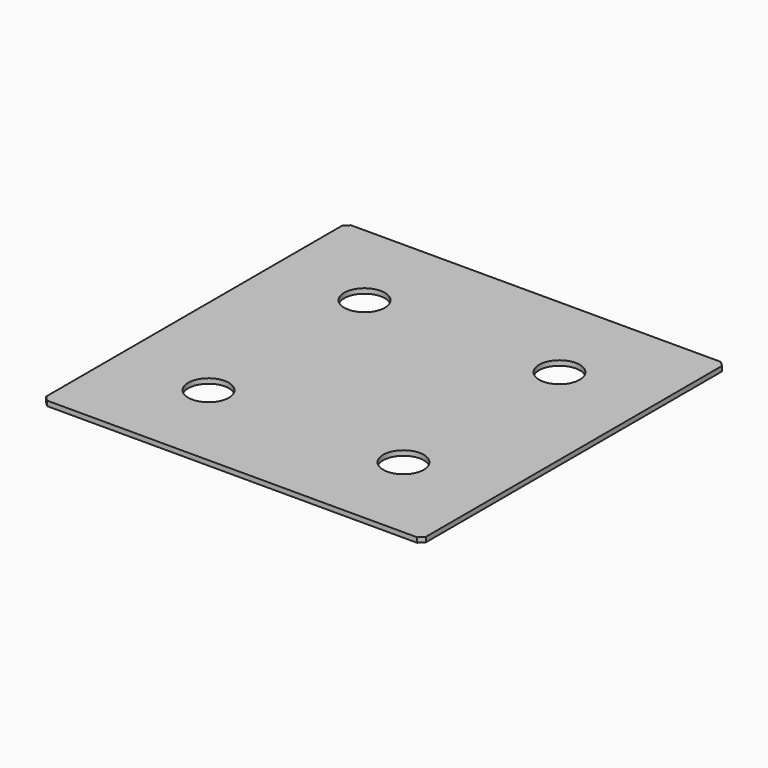
from build123d import *

# Parameters (mm, degrees)
F0_W     = 233.8
F0_H     = 233.8
F1_DEPTH = 3
F2_R     = 12.5
F3_DEPTH = 3.001
F4_SIZE  = 3


with BuildPart() as f1:
    # F0 (on Top) → F1 (new body)
    with BuildSketch(Plane.XY):
        Rectangle(F0_W, F0_H)
    extrude(amount=F1_DEPTH)

    # F2 (on face) → F3 (cut, through all)
    with BuildSketch(Plane.XY.offset(3)):
        with Locations((-60, 60)):
            Circle(F2_R)
        with Locations((-60, -60)):
            Circle(F2_R)
        with Locations((60, -60)):
            Circle(F2_R)
        with Locations((60, 60)):
            Circle(F2_R)
    extrude(amount=-F3_DEPTH, mode=Mode.SUBTRACT)

    # F4
    f4_edges = [f1.edges().sort_by_distance(p)[0] for p in [
        (116.9, 116.9, 1.5),
        (-116.9, 116.9, 1.5),
        (116.9, -116.9, 1.5),
        (-116.9, -116.9, 1.5),
    ]]
    chamfer(f4_edges, length=F4_SIZE)


solid = f1.part
